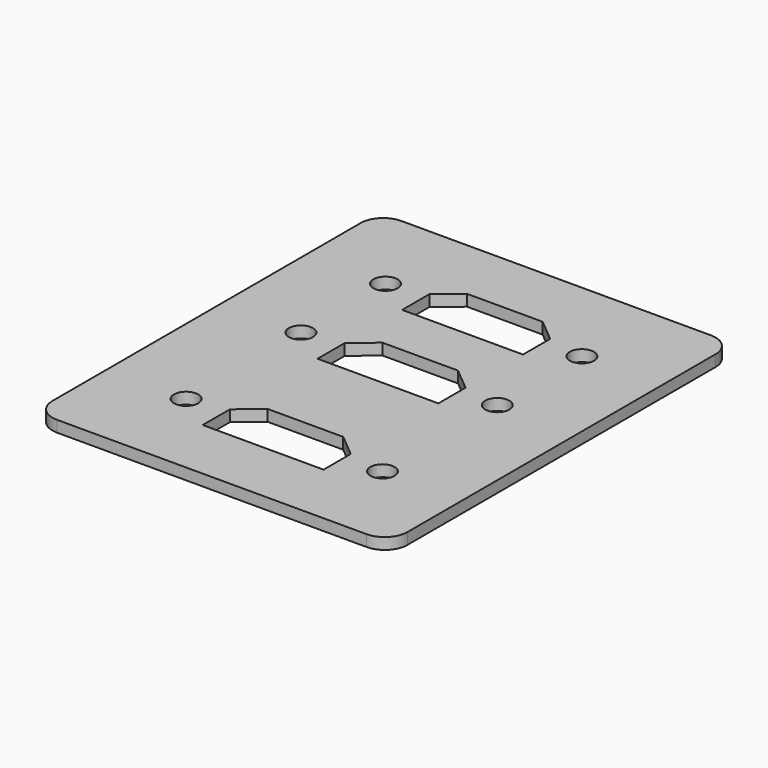
from build123d import *

# Parameters (mm, degrees)
F0_R     = 1.6
F1_DEPTH = 1.5


with BuildPart() as f1:
    # F0 (on Top) → F1 (new body)
    with BuildSketch(Plane.XY):
        with BuildLine():
            Line((-20.5, -31), (20.5, -31))
            ThreePointArc((20.5, -31), (22.62132, -30.12132), (23.5, -28))
            Line((23.5, -28), (23.5, 23))
            ThreePointArc((23.5, 23), (22.62132, 25.12132), (20.5, 26))
            Line((20.5, 26), (-20.5, 26))
            ThreePointArc((-20.5, 26), (-22.62132, 25.12132), (-23.5, 23))
            Line((-23.5, 23), (-23.5, -28))
            ThreePointArc((-23.5, -28), (-22.62132, -30.12132), (-20.5, -31))
        make_face()
        with Locations((-13, -19)):
            Circle(F0_R, mode=Mode.SUBTRACT)
        Polygon((-8, -18), (-5, -15.5), (5, -15.5), (8, -18), (8, -22.5), (-8, -22.5), align=None, mode=Mode.SUBTRACT)
        with Locations((13, -19)):
            Circle(F0_R, mode=Mode.SUBTRACT)
        with Locations((-13, 0)):
            Circle(F0_R, mode=Mode.SUBTRACT)
        with Locations((-13, 14)):
            Circle(F0_R, mode=Mode.SUBTRACT)
        Polygon((-8, 1), (-5, 3.5), (5, 3.5), (8, 1), (8, -3.5), (-8, -3.5), align=None, mode=Mode.SUBTRACT)
        with Locations((13, 0)):
            Circle(F0_R, mode=Mode.SUBTRACT)
        Polygon((-8, 15), (-5, 17.5), (5, 17.5), (8, 15), (8, 10.5), (-8, 10.5), align=None, mode=Mode.SUBTRACT)
        with Locations((13, 14)):
            Circle(F0_R, mode=Mode.SUBTRACT)
    extrude(amount=F1_DEPTH)


solid = f1.part
